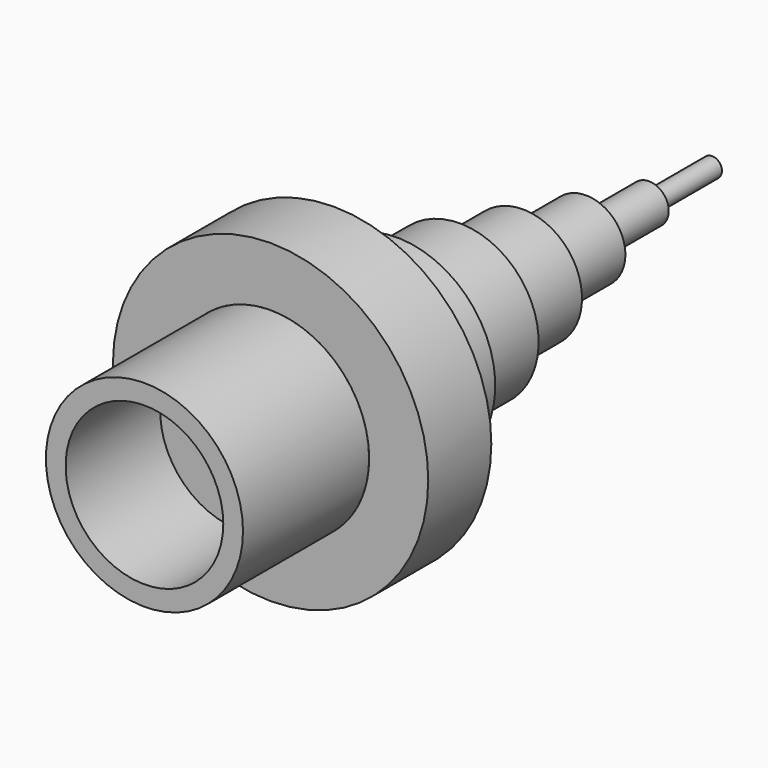
from build123d import *

# Parameters (mm, degrees)
F0_R      = 25
F1_DEPTH  = 40
F2_R      = 20
F3_DEPTH  = 30
F4_R      = 40
F4_R_2    = 25
F5_DEPTH  = 20
F6_R      = 25
F7_DEPTH  = 20
F8_R      = 20
F9_DEPTH  = 20
F10_R     = 15
F11_DEPTH = 20
F12_R     = 10
F13_DEPTH = 20
F14_R     = 5
F15_DEPTH = 20
F16_R     = 2.5
F17_DEPTH = 20


with BuildPart() as f1:
    # F0 (on Front) → F1 (new body)
    with BuildSketch(Plane.XZ):
        Circle(F0_R)
    extrude(amount=F1_DEPTH)

    # F2 (on face) → F3 (cut)
    with BuildSketch(Plane.XZ.offset(40)):
        Circle(F2_R)
    extrude(amount=-F3_DEPTH, mode=Mode.SUBTRACT)


with BuildPart() as f5:
    # F4 (on face) → F5 (new body)
    with BuildSketch(Plane(origin=(0, 0, 0), x_dir=(-1, 0, 0), z_dir=(0, 1, 0))):
        Circle(F4_R)
        Circle(F4_R_2, mode=Mode.SUBTRACT)
    extrude(amount=F5_DEPTH)


with BuildPart() as f7:
    # F6 (on face) → F7 (new body)
    with BuildSketch(Plane(origin=(0, 20, 0), x_dir=(-1, 0, 0), z_dir=(0, 1, 0))):
        Circle(F6_R)
    extrude(amount=F7_DEPTH)

    # F8 (on face) → F9 (join)
    with BuildSketch(Plane(origin=(0, 40, 0), x_dir=(-1, 0, 0), z_dir=(0, 1, 0))):
        Circle(F8_R)
    extrude(amount=F9_DEPTH)

    # F10 (on face) → F11 (join)
    with BuildSketch(Plane(origin=(0, 60, 0), x_dir=(-1, 0, 0), z_dir=(0, 1, 0))):
        Circle(F10_R)
    extrude(amount=F11_DEPTH)

    # F12 (on face) → F13 (join)
    with BuildSketch(Plane(origin=(0, 80, 0), x_dir=(-1, 0, 0), z_dir=(0, 1, 0))):
        Circle(F12_R)
    extrude(amount=F13_DEPTH)

    # F14 (on face) → F15 (join)
    with BuildSketch(Plane(origin=(0, 100, 0), x_dir=(-1, 0, 0), z_dir=(0, 1, 0))):
        Circle(F14_R)
    extrude(amount=F15_DEPTH)

    # F16 (on face) → F17 (join)
    with BuildSketch(Plane(origin=(0, 120, 0), x_dir=(-1, 0, 0), z_dir=(0, 1, 0))):
        Circle(F16_R)
    extrude(amount=F17_DEPTH)


solid = Compound([f1.part, f5.part, f7.part])
